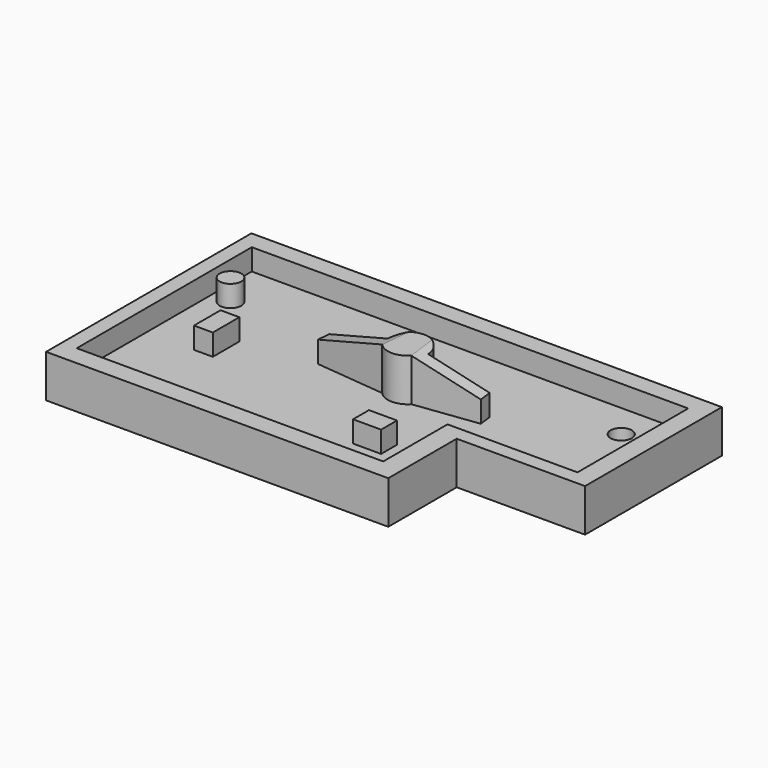
from build123d import *

# Parameters (mm, degrees)
F0_W      = 139.7
F0_H      = 76.2
F1_DEPTH  = 12.7
F2_W      = 38.1
F2_H      = 25.4
F3_DEPTH  = 25.4
F5_DEPTH  = 6.35
F6_R      = 5.9773594724
F7_DEPTH  = 12.7
F9_DEPTH  = 12.7
F10_R     = 3.1657943016
F11_DEPTH = 5.842
F12_R     = 3.2044828245
F13_DEPTH = 6.35
F15_DEPTH = 25.4
F17_DEPTH = 25.4
F18_W     = 8.3255954087
F18_H     = 5.8870837092
F19_DEPTH = 6.35
F20_W     = 5.5913813412
F20_H     = 9.8514808342
F21_DEPTH = 6.35


with BuildPart() as f1:
    # F0 (on Top) → F1 (new body)
    with BuildSketch(Plane.XY):
        with Locations((-0.7844120264, -7.9140792828)):
            Rectangle(F0_W, F0_H)
    extrude(amount=F1_DEPTH)

    # F2 (on face) → F3 (cut)
    with BuildSketch(Plane.XY.offset(12.7)):
        with Locations((50.0155879736, -33.3140792828)):
            Rectangle(F2_W, F2_H)
    extrude(amount=-F3_DEPTH, mode=Mode.SUBTRACT)

    # F4 (on face) → F5 (cut)
    with BuildSketch(Plane.XY.offset(12.7)):
        Polygon((-66.204354167, 24.7874129564), (-66.204354167, 22.5910600275), (-66.204354167, -40.1618853211), (24.787414819, -40.1618853211), (24.787414819, -18.8258830458), (24.787414819, -16.3157656789), (63.380472362, -16.3157656789), (63.380472362, 24.7874129564), align=None)
    extrude(amount=-F5_DEPTH, mode=Mode.SUBTRACT)

    # F6 (on face) → F7 (join)
    with BuildSketch(Plane.XY.offset(6.35)):
        Circle(F6_R)
    extrude(amount=F7_DEPTH)

    # F8 (on face) → F9 (join)
    with BuildSketch(Plane.XY.offset(6.35)):
        Polygon((-4.4516748307, -3.9889118144), (-5.9773594724, 0), (-24.8825047165, 1.9237768138), (-25.2686174839, -1.870591585), align=None)
        Polygon((22.542109713, 2.1264462266), (5.9773594724, 0), (4.3086566287, -4.142982539), (23.0382761422, -1.7386282226), align=None)
    extrude(amount=F9_DEPTH)

    # F10 (on face) → F11 (cut)
    with BuildSketch(Plane.XY.offset(6.35)):
        with Locations((51.7264902592, 14.4892735407)):
            Circle(F10_R)
    extrude(amount=-F11_DEPTH, mode=Mode.SUBTRACT)

    # F12 (on face) → F13 (join)
    with BuildSketch(Plane.XY.offset(6.35)):
        with Locations((-60.5522990227, 9.8278792575)):
            Circle(F12_R)
    extrude(amount=F13_DEPTH)

    # F14 (on face) → F15 (cut)
    with BuildSketch(Plane(origin=(-0.4473738579, -4.396387201, 0), x_dir=(0.9948623749, -0.1012366287, 0), z_dir=(-0.1012366287, -0.9948623749, 0))):
        Polygon((-24.9494244149, 12.7), (-4.0249798101, 19.05), (-6.8041724153, 19.05), (-24.9494244149, 19.05), align=None)
    extrude(amount=-F15_DEPTH, mode=Mode.SUBTRACT)

    # F16 (on face) → F17 (cut)
    with BuildSketch(Plane(origin=(0.5930722484, -4.6199586642, 0), x_dir=(0.9918608042, 0.1273269222, 0), z_dir=(0.1273269222, -0.9918608042, 0))):
        Polygon((22.6293889213, 19.05), (3.7460744135, 19.05), (22.6293889213, 12.7), align=None)
    extrude(amount=-F17_DEPTH, mode=Mode.SUBTRACT)


with BuildPart() as f19:
    # F18 (on face) → F19 (new body)
    with BuildSketch(Plane.XY.offset(12.7)):
        with Locations((17.8935732692, -34.5909558237)):
            Rectangle(F18_W, F18_H)
    extrude(amount=F19_DEPTH)


with BuildPart() as f21:
    # F20 (on face) → F21 (new body)
    with BuildSketch(Plane.XY.offset(12.7)):
        with Locations((-41.6691023856, -18.9041928388)):
            Rectangle(F20_W, F20_H)
    extrude(amount=F21_DEPTH)


solid = Compound([f1.part, f19.part, f21.part])
